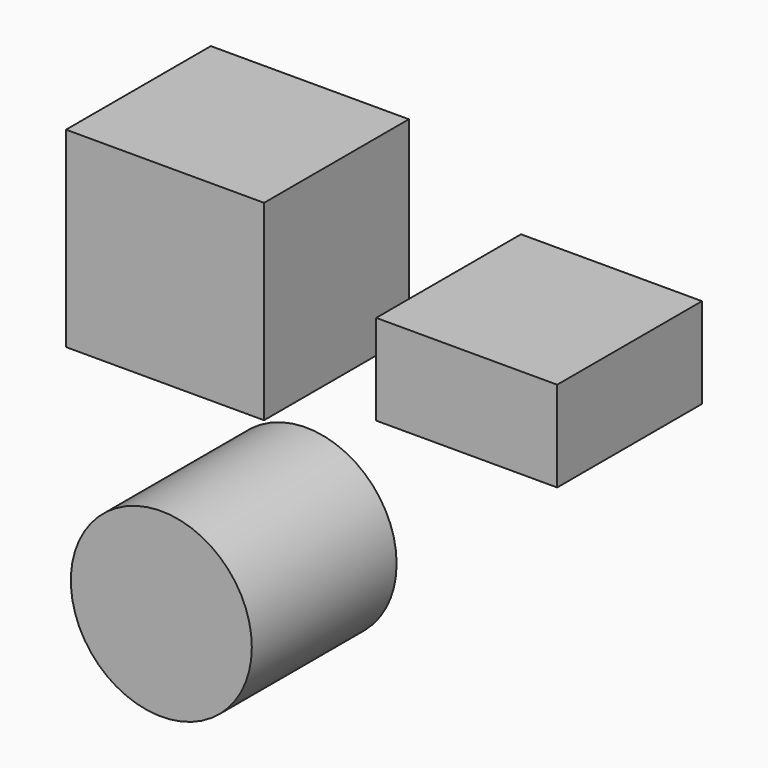
from build123d import *

# Parameters (mm, degrees)
F0_W     = 55.588346
F0_H     = 53.727642
F3_DEPTH = 50.8
F1_W     = 50.8
F1_H     = 25.4
F4_DEPTH = 50.8
F2_R     = 25.4
F5_DEPTH = 50.8


with BuildPart() as f3:
    # F0 (on Front) → F3 (new body)
    with BuildSketch(Plane.XZ):
        with Locations((-42.447167, 38.958356)):
            Rectangle(F0_W, F0_H)
    extrude(amount=F3_DEPTH)


with BuildPart() as f4:
    # F1 (on Front) → F4 (new body)
    with BuildSketch(Plane.XZ):
        with Locations((42.21458, 34.931152)):
            Rectangle(F1_W, F1_H)
    extrude(amount=F4_DEPTH)


with BuildPart() as f5:
    # F2 (on Front) → F5 (new body)
    with BuildSketch(Plane.XZ):
        with Locations((-43.493807, -45.121916)):
            Circle(F2_R)
    extrude(amount=F5_DEPTH)


solid = Compound([f3.part, f4.part, f5.part])
